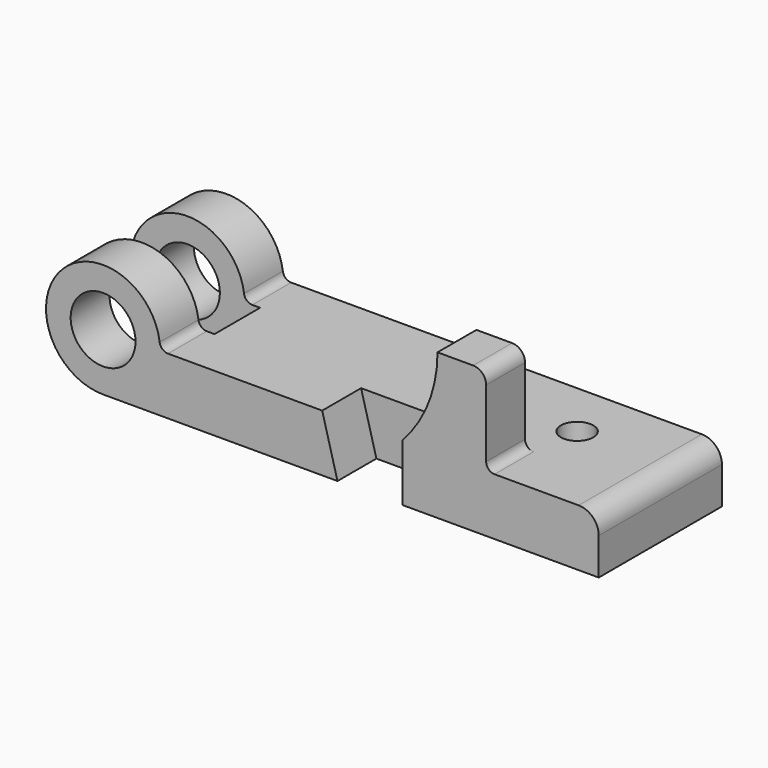
from build123d import *

# Parameters (mm, degrees)
F0_R      = 12.7
F1_DEPTH  = 60.325
F2_R      = 7.874
F4_DEPTH  = 19.05
F6_DEPTH  = 19.05
F7_R      = 5.08
F8_R      = 6.35
F9_DEPTH  = 22.353
F10_W     = 50.8
F10_H     = 22.3266
F11_DEPTH = 44.704
F12_R     = 3.302


with BuildPart() as f1:
    # F0 (on Front) → F1 (new body)
    with BuildSketch(Plane.XZ):
        with BuildLine():
            Line((194.2084, 0), (22.352, 0))
            ThreePointArc((22.352, 0), (15.8052507731, -15.8052507731), (0, -22.352))
            Line((0, -22.352), (194.2084, -22.352))
            Line((194.2084, -22.352), (194.2084, 0))
        make_face()
        with BuildLine():
            ThreePointArc((0, -22.352), (15.8052507731, -15.8052507731), (22.352, 0))
            ThreePointArc((22.352, 0), (-15.8052507731, 15.8052507731), (0, -22.352))
        make_face()
        Circle(F0_R, mode=Mode.SUBTRACT)
    extrude(amount=-F1_DEPTH)

    # F2
    f2_edges = [f1.edges().sort_by_distance(p)[0] for p in [
        (194.2084, 30.1625, 0),
    ]]
    fillet(f2_edges, radius=F2_R)

    # F3 (on face) → F4 (join)
    with BuildSketch(Plane.XZ):
        with BuildLine():
            ThreePointArc((131.0386, 34.798), (127.4644153616, 16.0823576341), (117.2464, 0))
            Line((117.2464, 0), (150.0886, 0))
            Line((150.0886, 0), (150.0886, 34.798))
            Line((150.0886, 34.798), (131.0386, 34.798))
        make_face()
    extrude(amount=-F4_DEPTH)

    # F5 (on face) → F6 (cut)
    with BuildSketch(Plane.XZ):
        Polygon((117.2464, -22.352), (117.2464, 0), (85.852, 0), (91.8464, -22.352), align=None)
    extrude(amount=-F6_DEPTH, mode=Mode.SUBTRACT)

    # F7
    f7_edges = [f1.edges().sort_by_distance(p)[0] for p in [
        (150.0886, 9.525, 34.798),
    ]]
    fillet(f7_edges, radius=F7_R)

    # F8 (on face) → F9 (cut, through all)
    with BuildSketch(Plane.XY):
        with Locations((155.3464, 37.973)):
            Circle(F8_R)
    extrude(amount=-F9_DEPTH, mode=Mode.SUBTRACT)

    # F10 (on face) → F11 (cut)
    with BuildSketch(Plane(origin=(0, 0, -22.352), x_dir=(1, 0, 0), z_dir=(0, 0, -1))):
        with Locations((3.048, -30.1625)):
            Rectangle(F10_W, F10_H)
    extrude(amount=-F11_DEPTH, mode=Mode.SUBTRACT)

    # F12
    f12_edges = [f1.edges().sort_by_distance(p)[0] for p in [
        (22.352, 9.4996, 0),
        (22.352, 50.8254, 0),
        (150.0886, 9.525, 0),
    ]]
    fillet(f12_edges, radius=F12_R)


solid = f1.part
